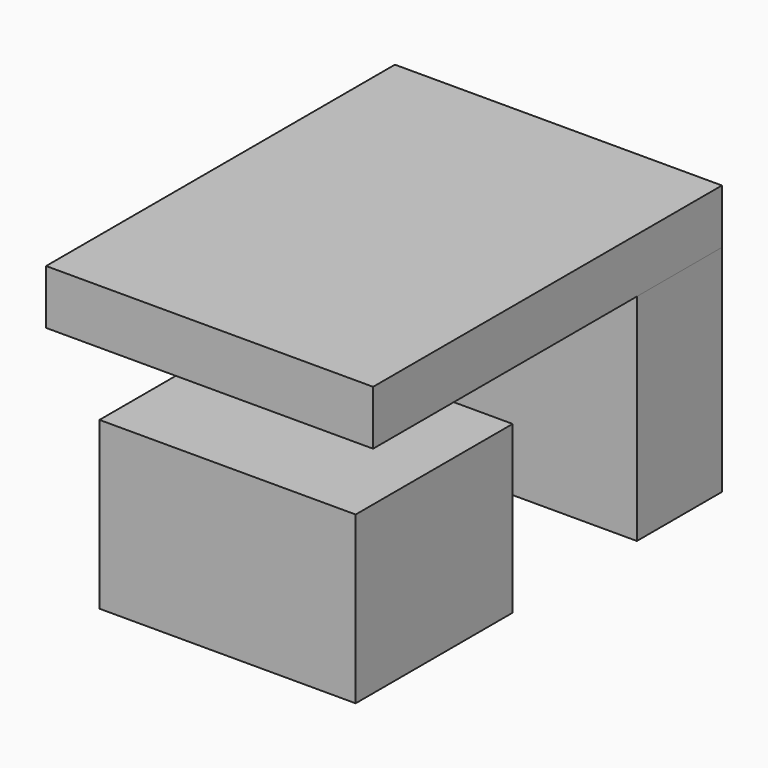
from build123d import *

# Parameters (mm, degrees)
F1_W     = 1066.8
F1_H     = 495.3
F2_DEPTH = 1003.3
F3_W     = 1193.8
F3_H     = 914.4
F4_DEPTH = 774.7
F5_W     = 1524
F5_H     = 2032
F6_DEPTH = 254


with BuildPart() as f2:
    # F1 (on Top) → F2 (new body)
    with BuildSketch(Plane.XY):
        with Locations((259.2293589305, -3.4930235706)):
            Rectangle(F1_W, F1_H)
    extrude(amount=F2_DEPTH)


with BuildPart() as f4:
    # F3 (on Top) → F4 (new body)
    with BuildSketch(Plane.XY):
        with Locations((328.1798738765, -833.088517189)):
            Rectangle(F3_W, F3_H)
    extrude(amount=F4_DEPTH)


with BuildPart() as f6:
    # F5 (on face) → F6 (new body)
    with BuildSketch(Plane.XY):
        with Locations((-1594.2597985268, -1648.1113307477)):
            Rectangle(F5_W, F5_H)
    extrude(amount=F6_DEPTH)


with BuildPart() as f2_1:
    # F7: moved
    add(f2.part.moved(Location((29.3877201844, 649.7301319944, 0))))


with BuildPart() as f4_1:
    # F8: moved
    add(f4.part.moved(Location((-103.0627947616, 50.5756256128, 0))))


with BuildPart() as f6_1:
    # F9: moved
    add(f6.part.moved(Location((1654.2768776417, 1525.9984391714, 1003.3))))


solid = Compound([f2_1.part, f4_1.part, f6_1.part])
